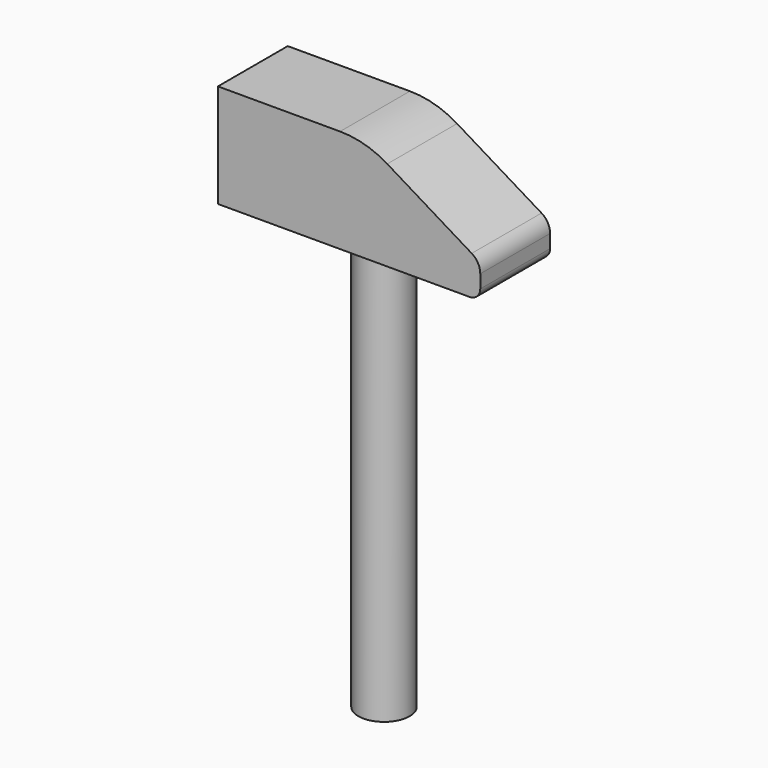
from build123d import *

# Parameters (mm, degrees)
F1_DEPTH = 12.7
F2_R     = 7.455635
F3_DEPTH = 136.652
F4_R     = 5.167347
F5_R     = 3.066051
F6_R     = 26.453002


with BuildPart() as f1:
    # F0 (on Front) → F1 (new body, symmetric)
    with BuildSketch(Plane.XZ):
        Polygon((38.175546, -5.210182), (4.778824, 15.066399), (-38.175546, 15.066399), (-38.175546, -15.066399), (38.175546, -15.066399), align=None)
    extrude(amount=F1_DEPTH, both=True)

    # F2 (on Top) → F3 (join)
    with BuildSketch(Plane.XY):
        Circle(F2_R)
    extrude(amount=-F3_DEPTH)

    # F4
    f4_edges = [f1.edges().sort_by_distance(p)[0] for p in [
        (38.175546, 0, -5.210182),
    ]]
    fillet(f4_edges, radius=F4_R)

    # F5
    f5_edges = [f1.edges().sort_by_distance(p)[0] for p in [
        (38.175546, 0, -15.066399),
    ]]
    fillet(f5_edges, radius=F5_R)

    # F6
    f6_edges = [f1.edges().sort_by_distance(p)[0] for p in [
        (4.778824, 0, 15.066399),
    ]]
    fillet(f6_edges, radius=F6_R)


solid = f1.part
